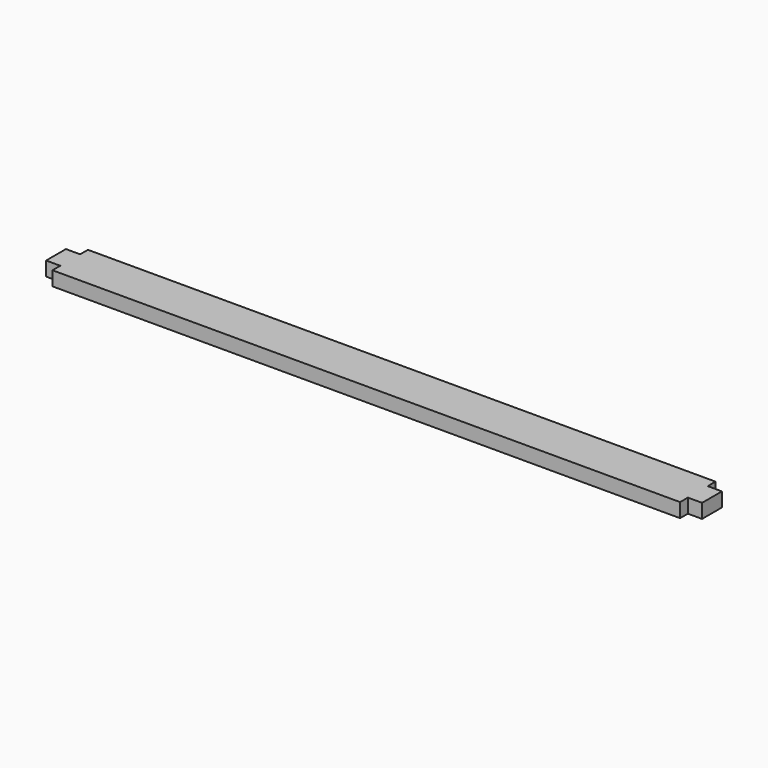
from build123d import *

# Parameters (mm, degrees)
F0_W     = 370
F0_H     = 25
F1_DEPTH = 4
F2_W     = 8
F2_H     = 5.5
F3_DEPTH = 8


with BuildPart() as f1:
    # F0 (on Top) → F1 (new body, symmetric)
    with BuildSketch(Plane.XY):
        Rectangle(F0_W, F0_H)
    extrude(amount=F1_DEPTH, both=True)

    # F2 (on face) → F3 (cut)
    with BuildSketch(Plane.XY.offset(4)):
        with Locations((-181, 9.75)):
            Rectangle(F2_W, F2_H)
        with Locations((-181, -9.75)):
            Rectangle(F2_W, F2_H)
        with Locations((181, 9.75)):
            Rectangle(F2_W, F2_H)
        with Locations((181, -9.75)):
            Rectangle(F2_W, F2_H)
    extrude(amount=-F3_DEPTH, mode=Mode.SUBTRACT)


solid = f1.part
